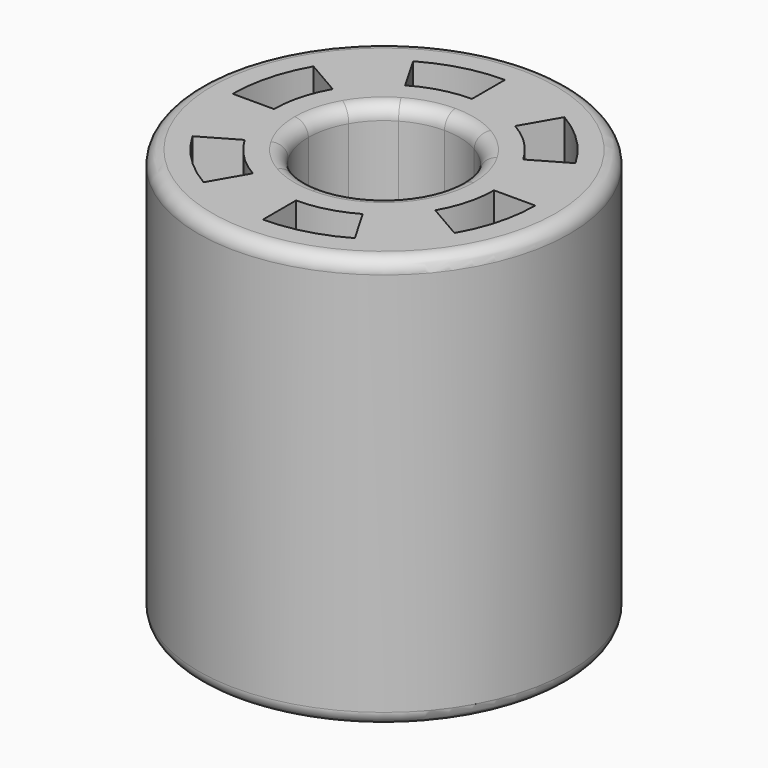
from build123d import *

# Parameters (mm, degrees)
F0_R     = 27
F1_DEPTH = 60
F2_R     = 2


with BuildPart() as f1:
    # F0 (on Top) → F1 (new body)
    with BuildSketch(Plane.XY):
        Circle(F0_R)
        with BuildLine():
            Line((-19.05255878, -10.9999999404), (-13.8564064606, -8))
            ThreePointArc((-13.8564064606, -8), (-11.313708499, -11.313708499), (-8, -13.8564064606))
            Line((-8, -13.8564064606), (-10.9999999404, -19.05255878))
            ThreePointArc((-10.9999999404, -19.05255878), (-15.5563491018, -15.5563491018), (-19.05255878, -10.9999999404))
        make_face(mode=Mode.SUBTRACT)
        with BuildLine():
            Line((0, -21.9999998808), (0, -16))
            ThreePointArc((0, -16), (4.1411047216, -15.4548132206), (8, -13.8564064606))
            Line((8, -13.8564064606), (10.9999999404, -19.05255878))
            ThreePointArc((10.9999999404, -19.05255878), (5.6940189614, -21.2503680632), (0, -21.9999998808))
        make_face(mode=Mode.SUBTRACT)
        with BuildLine():
            Line((16, 0), (21.9999998808, 0))
            ThreePointArc((21.9999998808, 0), (21.2503680632, -5.6940189614), (19.05255878, -10.9999999404))
            Line((19.05255878, -10.9999999404), (13.8564064606, -8))
            ThreePointArc((13.8564064606, -8), (15.4548132206, -4.1411047216), (16, 0))
        make_face(mode=Mode.SUBTRACT)
        with BuildLine():
            Line((-19.05255878, 10.9999999404), (-13.8564064606, 8))
            ThreePointArc((-13.8564064606, 8), (-15.4548132206, 4.1411047216), (-16, 0))
            Line((-16, 0), (-21.9999998808, 0))
            ThreePointArc((-21.9999998808, 0), (-21.2503680632, 5.6940189614), (-19.05255878, 10.9999999404))
        make_face(mode=Mode.SUBTRACT)
        with BuildLine():
            Line((0, 21.9999998808), (0, 16))
            ThreePointArc((0, 16), (-4.1411047216, 15.4548132206), (-8, 13.8564064606))
            Line((-8, 13.8564064606), (-10.9999999404, 19.05255878))
            ThreePointArc((-10.9999999404, 19.05255878), (-5.6940189614, 21.2503680632), (0, 21.9999998808))
        make_face(mode=Mode.SUBTRACT)
        with BuildLine():
            ThreePointArc((9.5262794416, 5.5), (10.6251840892, 2.8470094961), (11, 0))
            ThreePointArc((11, 0), (10.6251840892, -2.8470094961), (9.5262794416, -5.5))
            ThreePointArc((9.5262794416, -5.5), (7.7781745931, -7.7781745931), (5.5, -9.5262794416))
            ThreePointArc((5.5, -9.5262794416), (2.8470094961, -10.6251840892), (0, -11))
            ThreePointArc((0, -11), (-2.8470094961, -10.6251840892), (-5.5, -9.5262794416))
            ThreePointArc((-5.5, -9.5262794416), (-7.7781745931, -7.7781745931), (-9.5262794416, -5.5))
            ThreePointArc((-9.5262794416, -5.5), (-10.6251840892, -2.8470094961), (-11, 0))
            ThreePointArc((-11, 0), (-10.6251840892, 2.8470094961), (-9.5262794416, 5.5))
            ThreePointArc((-9.5262794416, 5.5), (-7.7781745931, 7.7781745931), (-5.5, 9.5262794416))
            ThreePointArc((-5.5, 9.5262794416), (-2.8470094961, 10.6251840892), (0, 11))
            ThreePointArc((0, 11), (2.8470094961, 10.6251840892), (5.5, 9.5262794416))
            ThreePointArc((5.5, 9.5262794416), (7.7781745931, 7.7781745931), (9.5262794416, 5.5))
        make_face(mode=Mode.SUBTRACT)
        with BuildLine():
            Line((19.05255878, 10.9999999404), (13.8564064606, 8))
            ThreePointArc((13.8564064606, 8), (11.313708499, 11.313708499), (8, 13.8564064606))
            Line((8, 13.8564064606), (10.9999999404, 19.05255878))
            ThreePointArc((10.9999999404, 19.05255878), (15.5563491018, 15.5563491018), (19.05255878, 10.9999999404))
        make_face(mode=Mode.SUBTRACT)
    extrude(amount=F1_DEPTH)

    # F2
    f2_edges = [f1.edges().sort_by_distance(p)[0] for p in [
        (-27, 0, 60),
        (-5.5, 9.526279, 60),
        (-27, 0, 0),
        (-5.5, 9.526279, 0),
    ]]
    fillet(f2_edges, radius=F2_R)


solid = f1.part
